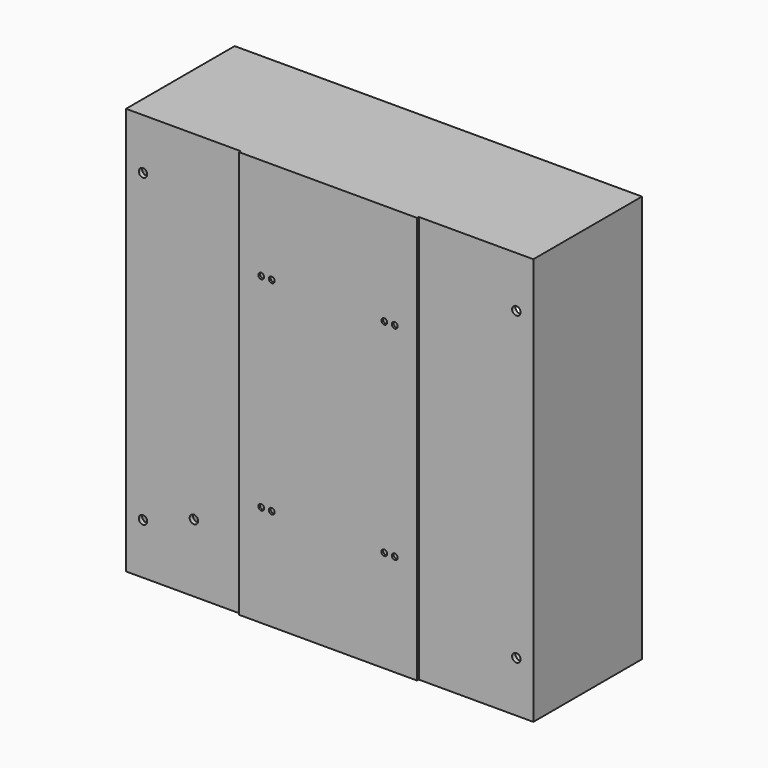
from build123d import *

# Parameters (mm, degrees)
F0_W     = 133.35
F0_H     = 304.8
F0_R     = 2.182813
F1_DEPTH = 1.5875
F2_W     = 304.8
F2_H     = 304.8
F2_R     = 3.175
F3_DEPTH = 98.425
F4_W     = 298.45
F4_H     = 298.45
F5_DEPTH = 95.25
F6_W     = 304.8
F6_H     = 304.8
F6_W_2   = 279.4
F6_H_2   = 279.4
F7_DEPTH = 3.175
F8_R     = 2.38125
F9_DEPTH = 25.4


with BuildPart() as f1:
    # F0 (on Front) → F1 (new body)
    with BuildSketch(Plane.XZ):
        Rectangle(F0_W, F0_H)
        with Locations((-49.9745, -76.2)):
            Circle(F0_R, mode=Mode.SUBTRACT)
        with Locations((-42.1005, -76.2)):
            Circle(F0_R, mode=Mode.SUBTRACT)
        with Locations((42.1005, -76.2)):
            Circle(F0_R, mode=Mode.SUBTRACT)
        with Locations((49.9745, -76.2)):
            Circle(F0_R, mode=Mode.SUBTRACT)
        with Locations((-49.9745, 76.2)):
            Circle(F0_R, mode=Mode.SUBTRACT)
        with Locations((-42.1005, 76.2)):
            Circle(F0_R, mode=Mode.SUBTRACT)
        with Locations((42.1005, 76.2)):
            Circle(F0_R, mode=Mode.SUBTRACT)
        with Locations((49.9745, 76.2)):
            Circle(F0_R, mode=Mode.SUBTRACT)
    extrude(amount=F1_DEPTH)

    # F2 (on Front) → F3 (join)
    with BuildSketch(Plane.XZ):
        Rectangle(F2_W, F2_H)
        with Locations((-139.7, -114.3)):
            Circle(F2_R, mode=Mode.SUBTRACT)
        with Locations((-101.6, -101.6)):
            Circle(F2_R, mode=Mode.SUBTRACT)
        with Locations((139.7, -114.3)):
            Circle(F2_R, mode=Mode.SUBTRACT)
        with Locations((-139.7, 114.3)):
            Circle(F2_R, mode=Mode.SUBTRACT)
        with Locations((139.7, 114.3)):
            Circle(F2_R, mode=Mode.SUBTRACT)
    extrude(amount=-F3_DEPTH)

    # F4 (on face) → F5 (cut)
    with BuildSketch(Plane(origin=(0, 98.425, 0), x_dir=(-1, 0, 0), z_dir=(0, 1, 0))):
        Rectangle(F4_W, F4_H)
    extrude(amount=-F5_DEPTH, mode=Mode.SUBTRACT)

    # F6 (on face) → F7 (join)
    with BuildSketch(Plane(origin=(0, 98.425, 0), x_dir=(-1, 0, 0), z_dir=(0, 1, 0))):
        Rectangle(F6_W, F6_H)
        Rectangle(F6_W_2, F6_H_2, mode=Mode.SUBTRACT)
    extrude(amount=F7_DEPTH)

    # F8 (on face) → F9 (cut)
    with BuildSketch(Plane(origin=(0, 101.6, 0), x_dir=(-1, 0, 0), z_dir=(0, 1, 0))):
        with Locations((-146.05, 114.3)):
            Circle(F8_R)
        with Locations((146.05, 114.3)):
            Circle(F8_R)
        with Locations((146.05, -114.3)):
            Circle(F8_R)
        with Locations((-146.05, -114.3)):
            Circle(F8_R)
    extrude(amount=-F9_DEPTH, mode=Mode.SUBTRACT)


solid = f1.part
